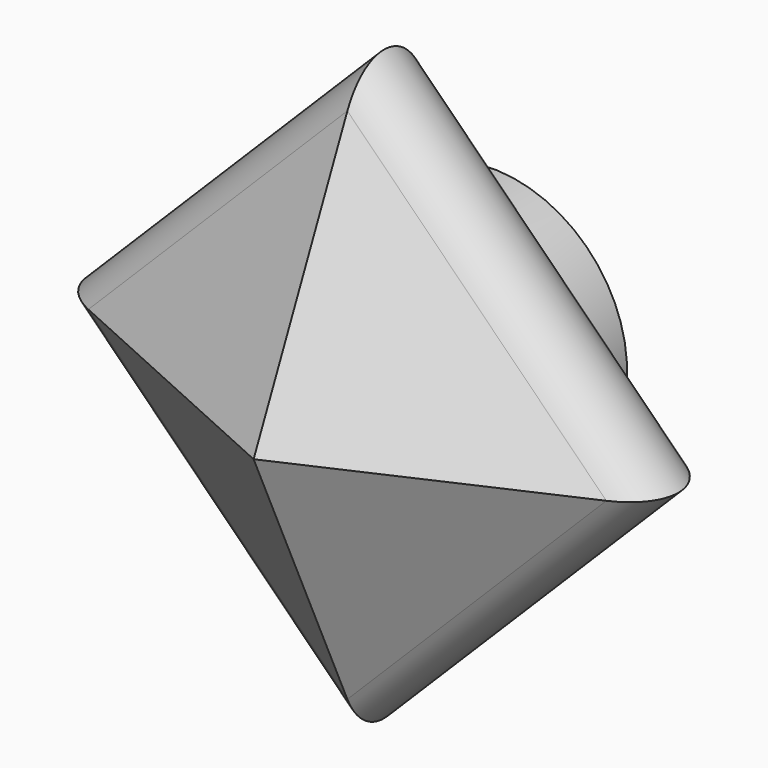
from build123d import *

# Parameters (mm, degrees)
F3_R     = 5.08
F4_R     = 12.7
F5_DEPTH = 2.54
F6_R     = 12.573
F7_DEPTH = 5.08


with BuildPart() as f2:
    # F0 (on Front) → F2 section 0
    with BuildSketch(Plane.XZ, mode=Mode.PRIVATE) as f2_s0:
        Polygon((-44.901281, 0), (0, -44.901281), (44.901281, 0), (0, 44.901281), align=None)
    loft([f2_s0.sketch, Vertex(0, -20.32, 0)])

    # F3
    f3_edges = [f2.edges().sort_by_distance(p)[0] for p in [
        (22.45064, 0, 22.45064),
        (-22.45064, 0, 22.45064),
        (-22.45064, 0, -22.45064),
        (22.45064, 0, -22.45064),
    ]]
    fillet(f3_edges, radius=F3_R)

    # F4 (on face) → F5 (join)
    with BuildSketch(Plane(origin=(0, 0, 0), x_dir=(-1, 0, 0), z_dir=(0, 1, 0))):
        Circle(F4_R)
    extrude(amount=F5_DEPTH)

    # F6 (on face) → F7 (join)
    with BuildSketch(Plane(origin=(0, 2.54, 0), x_dir=(-1, 0, 0), z_dir=(0, 1, 0))):
        Circle(F6_R)
    extrude(amount=F7_DEPTH)


solid = f2.part
